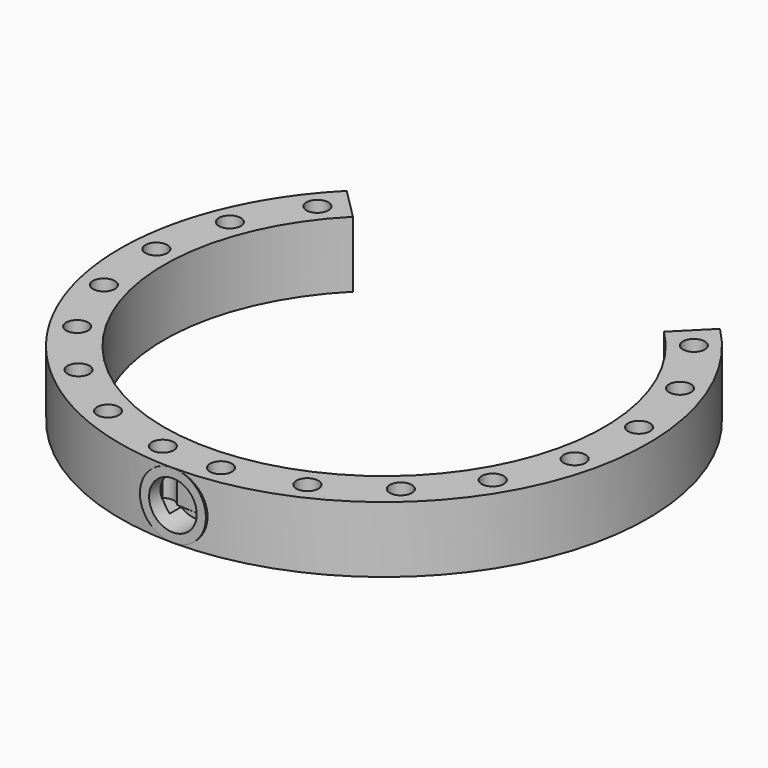
from build123d import *

# Parameters (mm, degrees)
PAD074_DEPTH    = 7
POCKET073_DEPTH = 5
PAD075_DEPTH    = 2
SKETCH187_R     = 1.5
POCKET074_DEPTH = 7
SKETCH189_W     = 1
SKETCH189_H     = 6
PAD076_DEPTH    = 1
SKETCH190_R     = 4.5
PAD077_DEPTH    = 1
SKETCH191_R     = 3.25
POCKET075_DEPTH = 4
SKETCH192_W     = 6
SKETCH192_H     = 1
POCKET076_DEPTH = 1


with BuildPart() as part:
    # Sketch184 → Pad074 (new body)
    with BuildSketch(Plane.XY):
        with BuildLine():
            ThreePointArc((-21.213203, 21.213203), (0, -30), (21.213203, 21.213203))
            Line((25.455844, 25.455844), (21.213203, 21.213203))
            ThreePointArc((-25.455844, 25.455844), (0, -36), (25.455844, 25.455844))
            Line((-25.455844, 25.455844), (-21.213203, 21.213203))
        make_face()
    extrude(amount=PAD074_DEPTH)

    # Sketch185 (on Face6 of Pad074) → Pocket073 (cut)
    with BuildSketch(Plane.XY.offset(7)):
        with BuildLine():
            ThreePointArc((-23.79351, 21.397871), (0, -32), (23.79351, 21.397871))
            Line((25.164596, 22.863577), (23.79351, 21.397871))
            ThreePointArc((-25.164596, 22.863577), (0, -34), (25.164596, 22.863577))
            Line((-25.164596, 22.863577), (-23.79351, 21.397871))
        make_face()
    extrude(amount=-POCKET073_DEPTH, mode=Mode.SUBTRACT)

    # Sketch186 (on Face5 of Pocket073) → Pad075 (join)
    with BuildSketch(Plane.XY.offset(7)):
        with BuildLine():
            ThreePointArc((-21.213203, 21.213203), (0, -30), (21.213203, 21.213203))
            Line((25.455844, 25.455844), (21.213203, 21.213203))
            ThreePointArc((-25.455844, 25.455844), (0, -36), (25.455844, 25.455844))
            Line((-25.455844, 25.455844), (-21.213203, 21.213203))
        make_face()
    extrude(amount=PAD075_DEPTH)

    # Sketch187 (on Face10 of Pad075) → Pocket074 (cut)
    with BuildSketch(Plane.XY.offset(9)):
        with Locations((-25.677783, 20.728036)):
            Circle(SKETCH187_R)
        with Locations((-30.707527, 12.085023)):
            Circle(SKETCH187_R)
        with Locations((-32.91748, 2.332274)):
            Circle(SKETCH187_R)
        with Locations((-32.104708, -7.634641)):
            Circle(SKETCH187_R)
        with Locations((-28.343844, -16.900488)):
            Circle(SKETCH187_R)
        with Locations((-21.980241, -24.614407)):
            Circle(SKETCH187_R)
        with Locations((-13.598249, -30.06805)):
            Circle(SKETCH187_R)
        with Locations((-3.967567, -32.760623)):
            Circle(SKETCH187_R)
        with Locations((3.967567, -32.760623)):
            Circle(SKETCH187_R)
        with Locations((13.598249, -30.06805)):
            Circle(SKETCH187_R)
        with Locations((21.980241, -24.614407)):
            Circle(SKETCH187_R)
        with Locations((28.343844, -16.900488)):
            Circle(SKETCH187_R)
        with Locations((32.104708, -7.634641)):
            Circle(SKETCH187_R)
        with Locations((32.91748, 2.332274)):
            Circle(SKETCH187_R)
        with Locations((30.707527, 12.085023)):
            Circle(SKETCH187_R)
        with Locations((25.677783, 20.728036)):
            Circle(SKETCH187_R)
    extrude(amount=-POCKET074_DEPTH, mode=Mode.SUBTRACT)

    # Sketch189 (on Face1 of Pocket074) → Pad076 (join)
    with BuildSketch(Plane(origin=(0, 0, 0), x_dir=(1, 0, 0), z_dir=(0, 0, -1))):
        with Locations((0.5, 33)):
            Rectangle(SKETCH189_W, SKETCH189_H)
    extrude(amount=PAD076_DEPTH)

    # Sketch190 (on Face14 of Pad076) → Pad077 (join)
    with BuildSketch(Plane.XZ.offset(36)):
        with Locations((0, 4.5)):
            Circle(SKETCH190_R)
    extrude(amount=-PAD077_DEPTH)

    # Sketch191 (on Face13 of Pad077) → Pocket075 (cut)
    with BuildSketch(Plane.XZ.offset(36)):
        with Locations((0, 4.5)):
            Circle(SKETCH191_R)
    extrude(amount=-POCKET075_DEPTH, mode=Mode.SUBTRACT)

    # Sketch192 (on Face35 of Pocket075) → Pocket076 (cut)
    with BuildSketch(Plane.YZ.offset(1)):
        with Locations((-33, -0.5)):
            Rectangle(SKETCH192_W, SKETCH192_H)
    extrude(amount=-POCKET076_DEPTH, mode=Mode.SUBTRACT)


solid = part.part
